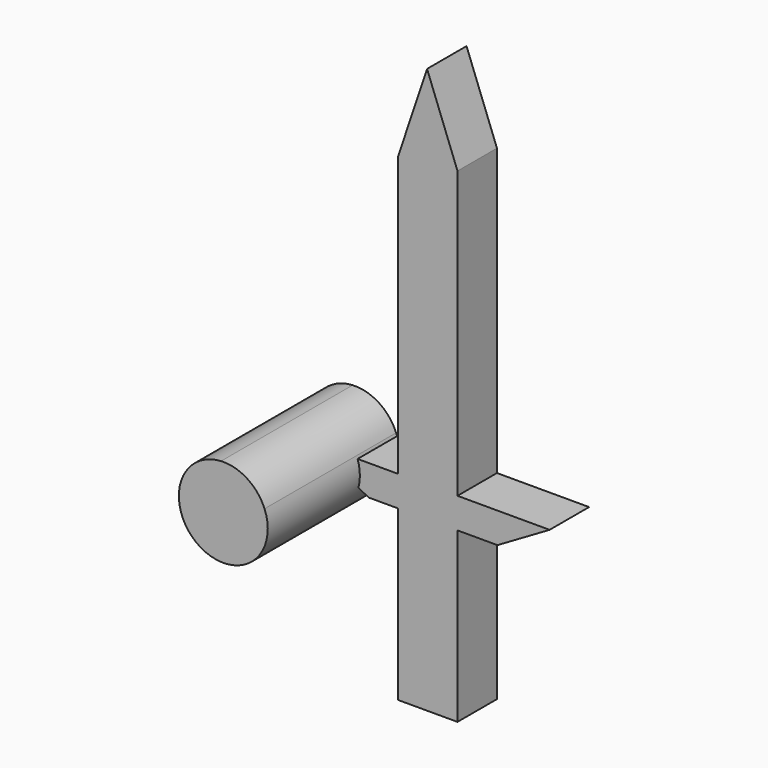
from build123d import *

# Parameters (mm, degrees)
F1_DEPTH = 7.62
F2_DEPTH = 25.4
F4_DEPTH = 25.4
F6_DEPTH = 25.4


with BuildPart() as f1:
    # F0 (on Front) → F1 (new body)
    with BuildSketch(Plane.XZ):
        Polygon((0, -4.6985740773), (0, 0), (-4.4972063042, 0), (-18.1230716407, 0), align=None)
        Polygon((4.698574543, 0), (0, 0), (0, -4.6985740773), (4.698574543, -4.6985740773), (18.9285408705, 0), (10.8738420531, 0), align=None)
        Polygon((-4.4972063042, 0), (0, 0), (4.698574543, 0), (4.698574543, 44.1665910184), (0, 56.5171316266), (-4.4972063042, 43.0926345289), (-4.4972063042, 26.4462586492), align=None)
        with BuildLine():
            Line((4.698574543, -4.6985740773), (0, -4.6985740773))
            Line((0, -4.6985740773), (-4.4972063042, -4.6985740773))
            Line((-4.4972063042, -4.6985740773), (-4.4972063042, -7.9204533249))
            add(Edge.make_bspline(
                [(-4.4972063042, -7.9204533249), (-3.0188959312, -8.9298356018), (-0.076765682, -10.9387061232), (3.1120295895, -9.4610912419), (4.698574543, -8.7259225547)],
                knots=[0, 0, 0, 0, 0.5024625859, 1, 1, 1, 1], degree=3))
            Line((4.698574543, -8.7259225547), (4.698574543, -4.6985740773))
        make_face()
        Polygon((-4.4972063042, -4.6985740773), (0, -4.6985740773), (-18.1230716407, 0), (-8.9944126084, -4.6985740773), align=None)
        Polygon((18.9285408705, 0), (4.698574543, -4.6985740773), (10.8738420531, -4.6985740773), align=None)
        with BuildLine():
            add(Edge.make_bspline(
                [(-4.4972063042, -7.9204533249), (-3.0188959312, -8.9298356018), (-0.076765682, -10.9387061232), (3.1120295895, -9.4610912419), (4.698574543, -8.7259225547)],
                knots=[0, 0, 0, 0, 0.5024625859, 1, 1, 1, 1], degree=3))
            Line((-4.4972063042, -7.9204533249), (-4.4972063042, -12.2162923217))
            add(Edge.make_bspline(
                [(-4.4972063042, -12.2162923217), (-3.0081701645, -13.4176450734), (-0.0043271069, -15.841142413), (3.1220001254, -13.4314667708), (4.698574543, -12.2162923217)],
                knots=[0, 0, 0, 0, 0.4957103654, 1, 1, 1, 1], degree=3))
            Line((4.698574543, -12.2162923217), (4.698574543, -8.7259225547))
        make_face()
        with BuildLine():
            add(Edge.make_bspline(
                [(-4.4972063042, -12.2162923217), (-3.0081701645, -13.4176450734), (-0.0043271069, -15.841142413), (3.1220001254, -13.4314667708), (4.698574543, -12.2162923217)],
                knots=[0, 0, 0, 0, 0.4957103654, 1, 1, 1, 1], degree=3))
            Line((-4.4972063042, -12.2162923217), (-4.4972063042, -17.720336793))
            add(Edge.make_bspline(
                [(-4.4972063042, -17.720336793), (-3.009588296, -19.5245403943), (-0.0141265995, -23.1574775803), (3.1206187826, -19.5408569928), (4.698574543, -17.720336793)],
                knots=[0, 0, 0, 0, 0.4966239461, 1, 1, 1, 1], degree=3))
            Line((4.698574543, -17.720336793), (4.698574543, -12.2162923217))
        make_face()
        with BuildLine():
            add(Edge.make_bspline(
                [(-4.4972063042, -17.720336793), (-3.009588296, -19.5245403943), (-0.0141265995, -23.1574775803), (3.1206187826, -19.5408569928), (4.698574543, -17.720336793)],
                knots=[0, 0, 0, 0, 0.4966239461, 1, 1, 1, 1], degree=3))
            Line((-4.4972063042, -17.720336793), (-4.4972063042, -24.8353201896))
            add(Edge.make_bspline(
                [(-4.4972063042, -24.8353201896), (-3.0004006611, -25.540556717), (0.0506661056, -26.9781005566), (3.1299428272, -25.2027364557), (4.698574543, -24.2983382195)],
                knots=[0, 0, 0, 0, 0.490584362, 1, 1, 1, 1], degree=3))
            Line((4.698574543, -24.2983382195), (4.698574543, -17.720336793))
        make_face()
        with BuildLine():
            add(Edge.make_bspline(
                [(-4.4972063042, -24.8353201896), (-3.0004006611, -25.540556717), (0.0506661056, -26.9781005566), (3.1299428272, -25.2027364557), (4.698574543, -24.2983382195)],
                knots=[0, 0, 0, 0, 0.490584362, 1, 1, 1, 1], degree=3))
            Line((-4.4972063042, -24.8353201896), (-4.4972063042, -30.7420995086))
            Line((-4.4972063042, -30.7420995086), (0, -30.7420995086))
            Line((0, -30.7420995086), (4.698574543, -30.7420995086))
            Line((4.698574543, -30.7420995086), (4.698574543, -24.2983382195))
        make_face()
    extrude(amount=F1_DEPTH)

    # F2 (add): a face of the model
    f2_faces = [f1.faces().sort_by_distance(p)[0] for p in [
        (0.1945490667, -7.62, 8.4784905135),
    ]]
    extrude(f2_faces, amount=F2_DEPTH)

    # F3 (on face) → F4 (cut)
    with BuildSketch(Plane.XZ.offset(33.02)):
        Polygon((-8.9944126084, -4.6985740773), (-4.4972063042, -4.6985740773), (-4.4972063042, -30.7420995086), (4.698574543, -30.7420995086), (4.698574543, -4.6985740773), (10.8738420531, -4.6985740773), (18.9285408705, 0), (4.698574543, 0), (4.698574543, 44.1665910184), (0, 56.5171316266), (-4.4972063042, 43.0926345289), (-4.4972063042, 0), (-18.1230716407, 0), align=None)
    extrude(amount=-F4_DEPTH, mode=Mode.SUBTRACT)

    # F5 (on Front) → F6 (join)
    with BuildSketch(Plane.XZ):
        with BuildLine():
            ThreePointArc((-17.5860915333, 4.6985740773), (-21.4011571542, 3.3053396825), (-23.7613599747, 0))
            ThreePointArc((-23.7613599747, 0), (-17.0294068149, -9.0208482643), (-10.8738420531, 0.4027348768))
            ThreePointArc((-10.8738420531, 0.4027348768), (-13.5428980412, 3.6241995188), (-17.5860915333, 4.6985740773))
        make_face()
    extrude(amount=F6_DEPTH)


solid = f1.part
